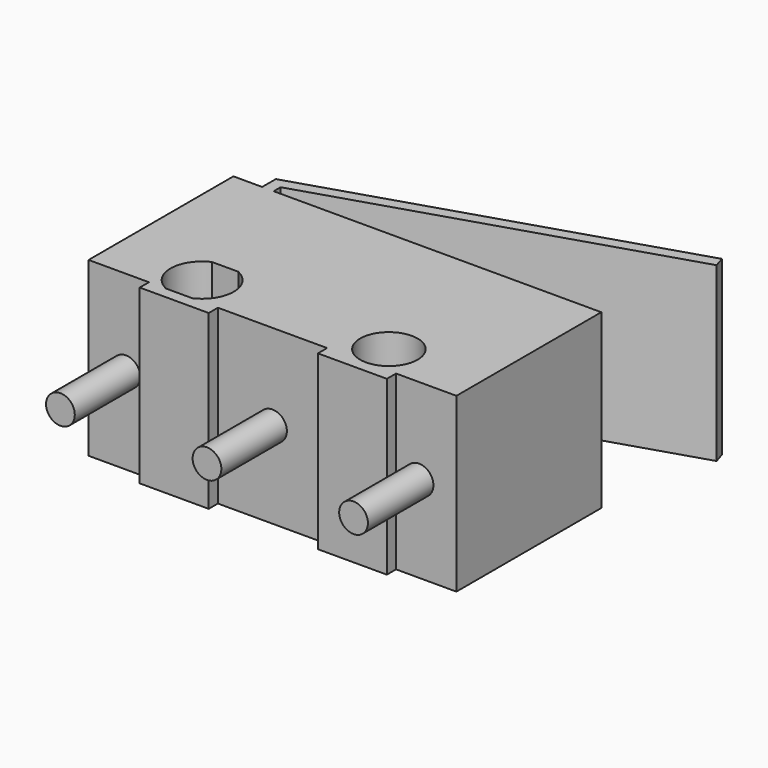
from build123d import *

# Parameters (mm, degrees)
SKETCH001_R         = 1
PAD001_DEPTH        = 6
CYLINDER003_R       = 0.5
CYLINDER003_DEPTH   = 3
LINEARPATTERN_COUNT = 3
LINEARPATTERN_PITCH = 5.1


with BuildPart() as part:
    # Sketch001 → Pad001 (new body)
    with BuildSketch(Plane.XY):
        Polygon((6.4, 3.15), (6.4, -3.15), (4.3, -3.15), (4.3, -3.55), (1.9, -3.55), (1.9, -3.15), (-1.9, -3.15), (-1.9, -3.55), (-4.3, -3.55), (-4.3, -3.15), (-6.4, -3.15), (-6.4, 3.15), (-5.4, 3.15), (-5.4, 3.743355), (6.999118, 7.65), (7.119322, 7.268489), (-5, 3.45), (-5, 3.15), align=None)
        with Locations((3.25, -2.15)):
            Circle(SKETCH001_R, mode=Mode.SUBTRACT)
        with BuildLine():
            ThreePointArc((-3.708258, -1.15), (-4.35, -2.15), (-3.708258, -3.15))
            Line((-2.791742, -3.15), (-3.708258, -3.15))
            ThreePointArc((-2.791742, -3.15), (-2.15, -2.15), (-2.791742, -1.15))
            Line((-3.708258, -1.15), (-2.791742, -1.15))
        make_face(mode=Mode.SUBTRACT)
    extrude(amount=PAD001_DEPTH)

    # Cylinder003 → Cylinder003 (join)
    with BuildSketch(Plane(origin=(-5.1, -3, 3), x_dir=(1, 0, 0), z_dir=(0, -1, 0))):
        Circle(CYLINDER003_R)
    cylinder003 = extrude(amount=CYLINDER003_DEPTH)

    # LinearPattern: Cylinder003 ×3
    with Locations(*[(i * LINEARPATTERN_PITCH, 0, 0) for i in range(1, LINEARPATTERN_COUNT)]):
        add(cylinder003)


solid = part.part
